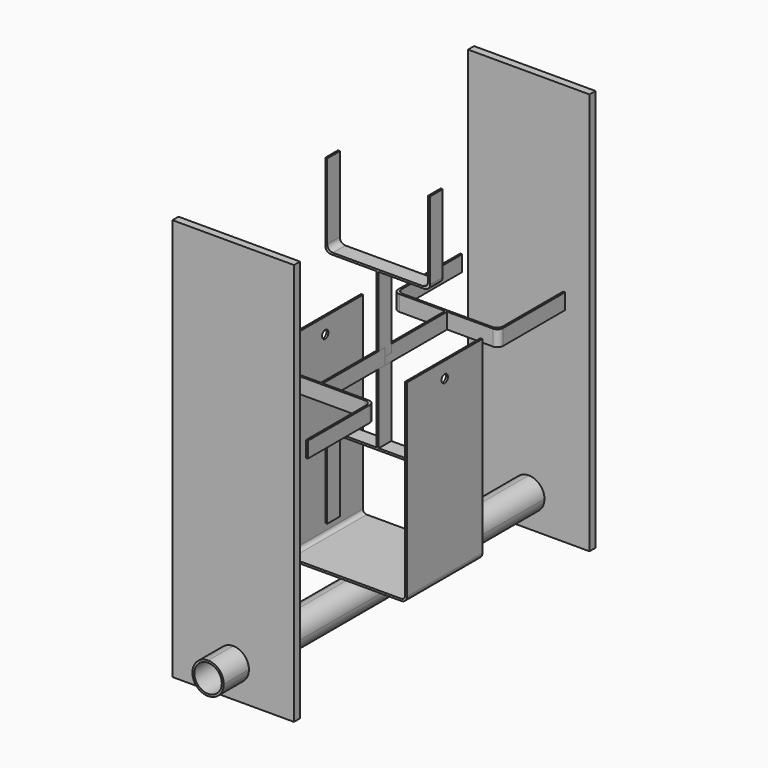
from build123d import *

# Parameters (mm, degrees)
F0_W      = 150
F0_H      = 3.175
F3_R      = 6.35
F4_DEPTH  = 193.351
F6_DEPTH  = 12.5
F7_COUNT  = 4
F8_R      = 21.825
F9_DEPTH  = 350
F11_W     = 193.35
F11_H     = 640.175
F11_R     = 25
F12_DEPTH = 12


with BuildPart() as f2:
    # F2: sweep along a path in F1
    with BuildLine(Plane.XZ) as f2_path:
        Line((-93.5, 306), (-93.5, 6))
        ThreePointArc((-93.5, 6), (-91.7426406871, 1.7573593129), (-87.5, 0))
        Line((-87.5, 0), (87.5, 0))
        ThreePointArc((87.5, 0), (91.7426406871, 1.7573593129), (93.5, 6))
        Line((93.5, 6), (93.5, 306))
    # F0 (on Right) → F2 (sweep)
    with BuildSketch(Plane.YZ):
        with Locations((0, -1.5875)):
            Rectangle(F0_W, F0_H)
    sweep(path=f2_path.line)

    # F3 (on face) → F4 (cut, through all)
    with BuildSketch(Plane.YZ.offset(96.675)):
        with Locations((0, 281)):
            Circle(F3_R)
    extrude(amount=-F4_DEPTH, mode=Mode.SUBTRACT)


with BuildPart() as f6:
    # F5 (on Front) → F6 (new body, symmetric)
    with BuildSketch(Plane.XZ):
        with BuildLine():
            Line((1.5875, 157.5), (0, 157.5))
            Line((0, 157.5), (-1.5875, 157.5))
            Line((-1.5875, 157.5), (-74.5, 157.5))
            ThreePointArc((-74.5, 157.5), (-80.8639610307, 154.8639610307), (-83.5, 148.5))
            Line((-83.5, 148.5), (-83.5, 25))
            Line((-83.5, 25), (-80.325, 25))
            Line((-80.325, 25), (-80.325, 145.325))
            ThreePointArc((-80.325, 145.325), (-77.6889610307, 151.6889610307), (-71.325, 154.325))
            Line((-71.325, 154.325), (71.325, 154.325))
            ThreePointArc((71.325, 154.325), (77.6889610307, 151.6889610307), (80.325, 145.325))
            Line((80.325, 145.325), (80.325, 25))
            Line((80.325, 25), (83.5, 25))
            Line((83.5, 25), (83.5, 148.5))
            ThreePointArc((83.5, 148.5), (80.8639610307, 154.8639610307), (74.5, 157.5))
            Line((74.5, 157.5), (1.5875, 157.5))
        make_face()
        Polygon((-1.5875, 157.5), (0, 157.5), (1.5875, 157.5), (1.5875, 281), (-1.5875, 281), align=None)
    extrude(amount=F6_DEPTH, both=True)


with BuildPart() as f7_1:
    # F7: instance of F6
    add(f6.part.rotate(Axis((-93.5, 0, 281), (1, 0, 0)), 1 * 360 / F7_COUNT))


with BuildPart() as f7_2:
    # F7: instance of F6
    add(f6.part.rotate(Axis((-93.5, 0, 281), (1, 0, 0)), 2 * 360 / F7_COUNT))


with BuildPart() as f7_3:
    # F7: instance of F6
    add(f6.part.rotate(Axis((-93.5, 0, 281), (1, 0, 0)), 3 * 360 / F7_COUNT))


with BuildPart() as f9:
    # F8 (on Front) → F9 (new body, symmetric)
    with BuildSketch(Plane.XZ):
        with BuildLine():
            ThreePointArc((7.64e-08, -3.175), (-17.6776695567, -45.8526695026), (25, -28.175))
            ThreePointArc((25, -28.175), (17.6776695567, -10.4973304974), (7.64e-08, -3.175))
        make_face()
        with Locations((0, -28.175)):
            Circle(F8_R, mode=Mode.SUBTRACT)
    extrude(amount=F9_DEPTH, both=True)


with BuildPart() as f12:
    # F11 (on offset) → F12 (new body)
    with BuildSketch(Plane.XZ.offset(300)):
        with Locations((0, 241.9125)):
            Rectangle(F11_W, F11_H)
        with Locations((0, -28.175)):
            Circle(F11_R, mode=Mode.SUBTRACT)
    extrude(amount=-F12_DEPTH)


with BuildPart() as f13_1:
    # F13: instance of F12
    add(f12.part.mirror(Plane.XZ))


solid = Compound([f2.part, f6.part, f7_1.part, f7_2.part, f7_3.part, f9.part, f12.part, f13_1.part])
